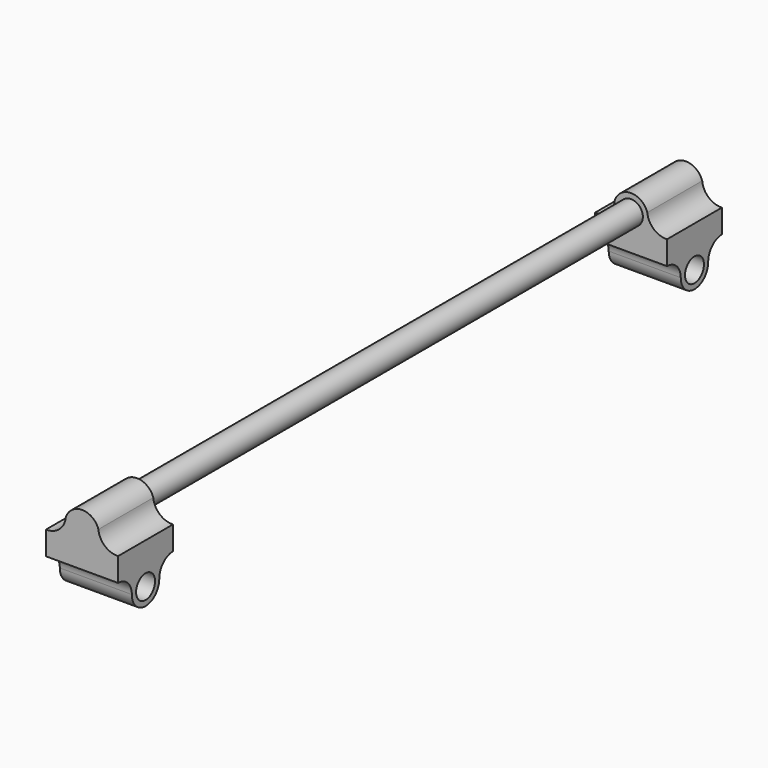
from build123d import *

# Parameters (mm, degrees)
SKETCH011_R  = 6.9
PAD001_DEPTH = 42
SKETCH012_R  = 6.9
PAD002_DEPTH = 42
SKETCH014_R  = 6.9
PAD004_DEPTH = 20
SKETCH015_R  = 6.9
PAD005_DEPTH = 20
SKETCH016_R  = 6.9
PAD006_DEPTH = 440


with BuildPart() as x_axis_sled1:
    # Sketch011 → Pad001 (new body)
    with BuildSketch(Plane.YZ):
        with BuildLine():
            Line((-20, 16.9), (20, 16.9))
            Line((20, 16.9), (20, 10))
            ThreePointArc((20, 10), (12.928932, 7.071068), (10, 0))
            ThreePointArc((-10, 0), (0, -9.999999), (10, 0))
            ThreePointArc((-10, 0), (-12.928932, 7.071068), (-20, 10))
            Line((-20, 10), (-20, 16.9))
        make_face()
        Circle(SKETCH011_R, mode=Mode.SUBTRACT)
    extrude(amount=PAD001_DEPTH)


with BuildPart() as x_axis_sled2:
    # Sketch012 → Pad002 (new body)
    with BuildSketch(Plane(origin=(0, 400, 0), x_dir=(0, 1, 0), z_dir=(1, 0, 0))):
        with BuildLine():
            Line((-20, 16.9), (20, 16.9))
            Line((20, 16.9), (20, 10))
            ThreePointArc((20, 10), (12.928932, 7.071068), (10, 0))
            ThreePointArc((-10, 0), (0, -9.999999), (10, 0))
            ThreePointArc((-10, 0), (-12.928932, 7.071068), (-20, 10))
            Line((-20, 10), (-20, 16.9))
        make_face()
        Circle(SKETCH012_R, mode=Mode.SUBTRACT)
    extrude(amount=PAD002_DEPTH)


with BuildPart() as y_axis_socket1:
    # Sketch014 → Pad004 (new body, symmetric)
    with BuildSketch(Plane.XZ):
        with BuildLine():
            Line((0, 23.8), (0, 16.9))
            Line((0, 16.9), (42, 16.9))
            Line((42, 16.9), (42, 23.8))
            ThreePointArc((30.507366, 33.8), (34.242407, 26.488514), (42, 23.8))
            ThreePointArc((30.507366, 33.8), (21, 40.7), (11.492634, 33.8))
            ThreePointArc((0, 23.8), (7.757593, 26.488514), (11.492634, 33.8))
        make_face()
        with Locations((21, 30.7)):
            Circle(SKETCH014_R, mode=Mode.SUBTRACT)
    extrude(amount=PAD004_DEPTH, both=True)


with BuildPart() as y_axis_socket2:
    # Sketch015 → Pad005 (new body, symmetric)
    with BuildSketch(Plane.XZ.offset(-400)):
        with BuildLine():
            Line((0, 23.8), (0, 16.9))
            Line((0, 16.9), (42, 16.9))
            Line((42, 16.9), (42, 23.8))
            ThreePointArc((30.507366, 33.8), (34.242407, 26.488514), (42, 23.8))
            ThreePointArc((30.507366, 33.8), (21, 40.7), (11.492634, 33.8))
            ThreePointArc((0, 23.8), (7.757593, 26.488514), (11.492634, 33.8))
        make_face()
        with Locations((21, 30.7)):
            Circle(SKETCH015_R, mode=Mode.SUBTRACT)
    extrude(amount=PAD005_DEPTH, both=True)


with BuildPart() as y_rail:
    # Sketch016 → Pad006 (new body)
    with BuildSketch(Plane.XZ.offset(20)):
        with Locations((21, 30.7)):
            Circle(SKETCH016_R)
    extrude(amount=-PAD006_DEPTH)

    # Fusion: union X_Axis_Sled1, X_Axis_Sled2, Y_Axis_Socket1, Y_Axis_Socket2
    add(x_axis_sled1.part)
    add(x_axis_sled2.part)
    add(y_axis_socket1.part)
    add(y_axis_socket2.part)


solid = y_rail.part
